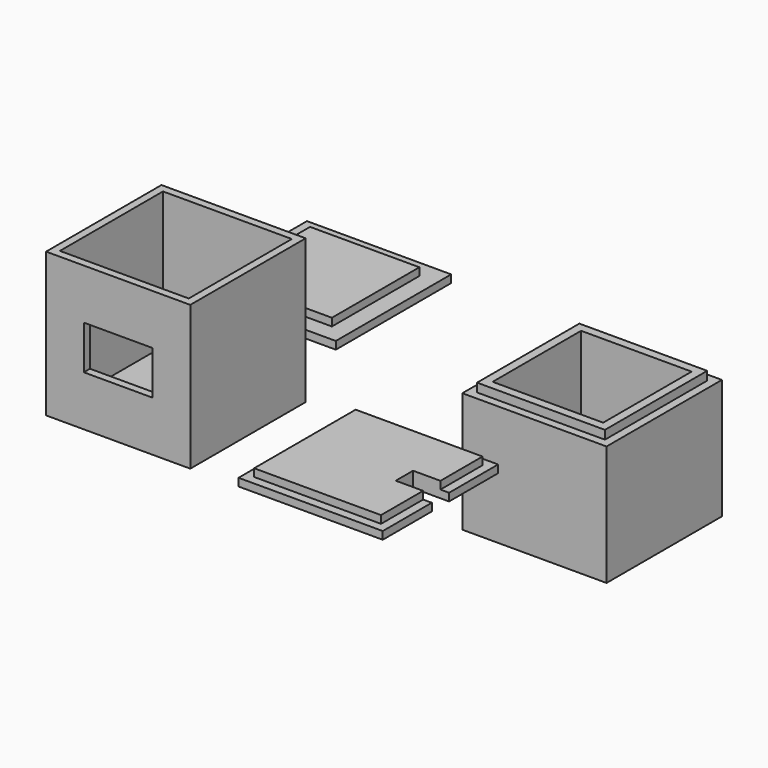
from build123d import *

# Parameters (mm, degrees)
F0_W      = 30
F0_H      = 30
F1_DEPTH  = 30
F2_T      = -1.6
F3_W      = 14.3
F3_H      = 9.1
F4_DEPTH  = 1.6
F5_R      = 4.25
F6_DEPTH  = 1.6
F7_W      = 30
F7_H      = 30
F7_W_2    = 13.2
F7_H_2    = 26.4
F8_DEPTH  = 1.6
F9_W      = 26.4
F9_H      = 26.4
F10_DEPTH = 1.6
F11_W     = 7.5
F11_H     = 4.5
F12_DEPTH = 30.001
F13_W     = 30
F13_H     = 30
F14_DEPTH = 25
F15_W     = 26.6
F15_H     = 26.6
F16_DEPTH = 1.8
F17_W     = 23
F17_H     = 23
F18_DEPTH = 26.801
F19_W     = 30
F19_H     = 30
F20_DEPTH = 1.6
F21_W     = 22.75
F21_H     = 22.75
F22_DEPTH = 1.6
F23_W     = 7.5
F23_H     = 4.6
F24_DEPTH = 30.001


with BuildPart() as f1:
    # F0 (on Front) → F1 (new body)
    with BuildSketch(Plane.XZ):
        with Locations((-15, 15)):
            Rectangle(F0_W, F0_H)
    extrude(amount=F1_DEPTH)

    # F2
    f2_openings = [f1.faces().sort_by_distance(p)[0] for p in [
        (-15, -15, 30),
    ]]
    offset(amount=F2_T, openings=f2_openings)

    # F3 (on face) → F4 (cut)
    with BuildSketch(Plane.XZ.offset(30)):
        with Locations((-15, 15)):
            Rectangle(F3_W, F3_H)
    extrude(amount=-F4_DEPTH, mode=Mode.SUBTRACT)

    # F5 (on face) → F6 (cut)
    with BuildSketch(Plane(origin=(0, 0, 0), x_dir=(1, 0, 0), z_dir=(0, 0, -1))):
        with Locations((-14.55, 15)):
            Circle(F5_R)
    extrude(amount=-F6_DEPTH, mode=Mode.SUBTRACT)


with BuildPart() as f8:
    # F7 (on Top) → F8 (new body)
    with BuildSketch(Plane.XY):
        with Locations((25.039431, -15)):
            Rectangle(F7_W, F7_H)
        Polygon((11.839431, -28.2), (11.839431, -1.8), (25.039431, -1.8), (38.239431, -1.8), (38.239431, -28.2), (25.039431, -28.2), align=None, mode=Mode.SUBTRACT)
        with Locations((18.439431, -15)):
            Rectangle(F7_W_2, F7_H_2)
        with Locations((31.639431, -15)):
            Rectangle(F7_W_2, F7_H_2)
    extrude(amount=F8_DEPTH)

    # F9 (on face) → F10 (join)
    with BuildSketch(Plane.XY.offset(1.6)):
        with Locations((25.039431, -15)):
            Rectangle(F9_W, F9_H)
    extrude(amount=F10_DEPTH)

    # F11 (on face) → F12 (cut, through all)
    with BuildSketch(Plane.XY):
        with Locations((36.289431, -15)):
            Rectangle(F11_W, F11_H)
    extrude(amount=F12_DEPTH, mode=Mode.SUBTRACT)


with BuildPart() as f14:
    # F13 (on Top) → F14 (new body)
    with BuildSketch(Plane.XY):
        with Locations((32.92393, 33.345879)):
            Rectangle(F13_W, F13_H)
    extrude(amount=-F14_DEPTH)

    # F15 (on face) → F16 (join)
    with BuildSketch(Plane.XY):
        with Locations((32.92393, 33.345879)):
            Rectangle(F15_W, F15_H)
    extrude(amount=F16_DEPTH)

    # F17 (on face) → F18 (cut, through all)
    with BuildSketch(Plane.XY.offset(1.8)):
        with Locations((32.92393, 33.345879)):
            Rectangle(F17_W, F17_H)
    extrude(amount=-F18_DEPTH, mode=Mode.SUBTRACT)


with BuildPart() as f20:
    # F19 (on Top) → F20 (new body)
    with BuildSketch(Plane.XY):
        with Locations((-22.690918, 32.458312)):
            Rectangle(F19_W, F19_H)
    extrude(amount=F20_DEPTH)

    # F21 (on face) → F22 (join)
    with BuildSketch(Plane.XY.offset(1.6)):
        with Locations((-22.740918, 32.408312)):
            Rectangle(F21_W, F21_H)
    extrude(amount=F22_DEPTH)

    # F23 (on face) → F24 (cut, through all)
    with BuildSketch(Plane(origin=(0, 0, 0), x_dir=(1, 0, 0), z_dir=(0, 0, -1))):
        with Locations((-33.940918, -32.458312)):
            Rectangle(F23_W, F23_H)
    extrude(amount=-F24_DEPTH, mode=Mode.SUBTRACT)


solid = Compound([f1.part, f8.part, f14.part, f20.part])
